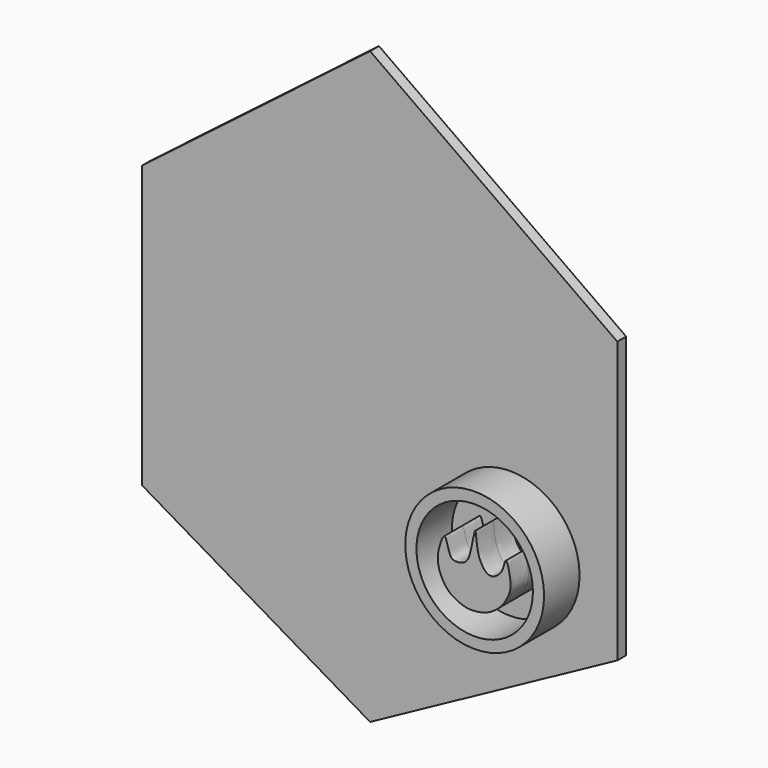
from build123d import *

# Parameters (mm, degrees)
F1_DEPTH  = 12.7
F2_DEPTH  = 2.54
F3_DEPTH  = 7.62
F4_DEPTH  = 2.54
F5_DEPTH  = 2.54
F6_DEPTH  = 2.54
F7_DEPTH  = 2.54
F8_DEPTH  = 2.54
F9_DEPTH  = 2.54
F10_R     = 15.9022238719
F10_R_2   = 13.3429981352
F11_DEPTH = 5.08
F12_DEPTH = 5.08


with BuildPart() as f1:
    # F0 (on Front) → F1 (new body)
    with BuildSketch(Plane.XZ):
        Polygon((59.2296272516, 26.558874175), (0, 68.5641244054), (-54.7846257687, 26.558874175), (-54.7846257687, -40.5606217682), (0, -72.7868750691), (59.2296272516, -40.5606217682), align=None)
    extrude(amount=F1_DEPTH)

    # F2 (cut): a face of the model
    f2_faces = [f1.faces().sort_by_distance(p)[0] for p in [
        (1.9587071028, -12.7, -4.2659517496),
    ]]
    extrude(f2_faces, amount=-F2_DEPTH, mode=Mode.SUBTRACT)

    # F3 (cut): a face of the model
    f3_faces = [f1.faces().sort_by_distance(p)[0] for p in [
        (1.9587071028, -10.16, -4.2659517496),
    ]]
    extrude(f3_faces, amount=-F3_DEPTH, mode=Mode.SUBTRACT)

    # F4 (cut): a face of the model
    f4_faces = [f1.faces().sort_by_distance(p)[0] for p in [
        (29.6148136258, -1.27, 47.5614992902),
    ]]
    extrude(f4_faces, amount=-F4_DEPTH, mode=Mode.SUBTRACT)

    # F5 (cut): a face of the model
    f5_faces = [f1.faces().sort_by_distance(p)[0] for p in [
        (-27.3923128843, -1.27, 47.5614992902),
    ]]
    extrude(f5_faces, amount=-F5_DEPTH, mode=Mode.SUBTRACT)

    # F6 (cut): a face of the model
    f6_faces = [f1.faces().sort_by_distance(p)[0] for p in [
        (59.2296272516, -1.27, -7.0008737966),
    ]]
    extrude(f6_faces, amount=-F6_DEPTH, mode=Mode.SUBTRACT)

    # F7 (cut): a face of the model
    f7_faces = [f1.faces().sort_by_distance(p)[0] for p in [
        (-54.7846257687, -1.27, -7.0008737966),
    ]]
    extrude(f7_faces, amount=-F7_DEPTH, mode=Mode.SUBTRACT)

    # F8 (cut): a face of the model
    f8_faces = [f1.faces().sort_by_distance(p)[0] for p in [
        (-27.3923128843, -1.27, -56.6737484187),
    ]]
    extrude(f8_faces, amount=-F8_DEPTH, mode=Mode.SUBTRACT)

    # F9 (cut): a face of the model
    f9_faces = [f1.faces().sort_by_distance(p)[0] for p in [
        (29.6148136258, -1.27, -56.6737484187),
    ]]
    extrude(f9_faces, amount=-F9_DEPTH, mode=Mode.SUBTRACT)

    # F10 (on face) → F11 (join)
    with BuildSketch(Plane.XZ.offset(2.54)):
        with Locations((32.1398116648, -24.7187204659)):
            Circle(F10_R)
        with Locations((32.1398116648, -24.7187204659)):
            Circle(F10_R_2, mode=Mode.SUBTRACT)
        with BuildLine():
            add(Edge.make_bspline(
                [(32.2453081608, -16.7180448771), (31.9967586668, -16.8732101891), (31.2553448326, -22.7493113078), (29.6338220491, -24.1409534673), (28.1139334931, -24.3890826891), (26.199426082, -24.2423857248), (25.5287597264, -18.5355862879), (24.0034328687, -22.3605775815), (23.5375125485, -25.05721339), (24.0369653, -27.8326799174), (25.8056812458, -30.8046773764), (27.8779257654, -32.0555182819), (30.1370784504, -33.0206385013), (32.8289040098, -32.9768103912), (35.3907426171, -32.3274248149), (38.1399393913, -30.3575004256), (39.4026172261, -28.3439675485), (40.2815668907, -26.5397957163), (40.5523953542, -24.3833271325), (39.3856537519, -19.3073458822), (38.7900072269, -21.8941903979), (38.0655253549, -23.6455233211), (36.3032942086, -24.8155218063), (34.8564977863, -24.5676408285), (33.7463673818, -23.1062512051), (32.9464331953, -21.3465993085), (32.555419893, -18.9952556484), (32.3896783172, -16.6279169914), (32.2453081608, -16.7180448771)],
                knots=[0, 0, 0, 0, 0.0590304115, 0.096386387, 0.1253412072, 0.1568158531, 0.2049131251, 0.2413647512, 0.2850044532, 0.3259127741, 0.3710807882, 0.409243158, 0.4474326626, 0.4873425366, 0.5276198195, 0.5725308429, 0.6105732646, 0.6440313416, 0.6835140383, 0.7312577453, 0.7593319016, 0.7955839871, 0.8298282567, 0.8578676289, 0.890286879, 0.9242587912, 0.9657121421, 1, 1, 1, 1], degree=3))
        make_face()
    extrude(amount=F11_DEPTH)

    # F12 (add): faces of the model
    f12_faces = [f1.faces().sort_by_distance(p)[0] for p in [
        (31.8565257611, -7.62, -26.8927989105),
        (16.6873706063, -7.62, -24.7187204659),
    ]]
    extrude(f12_faces, amount=F12_DEPTH)


solid = f1.part
